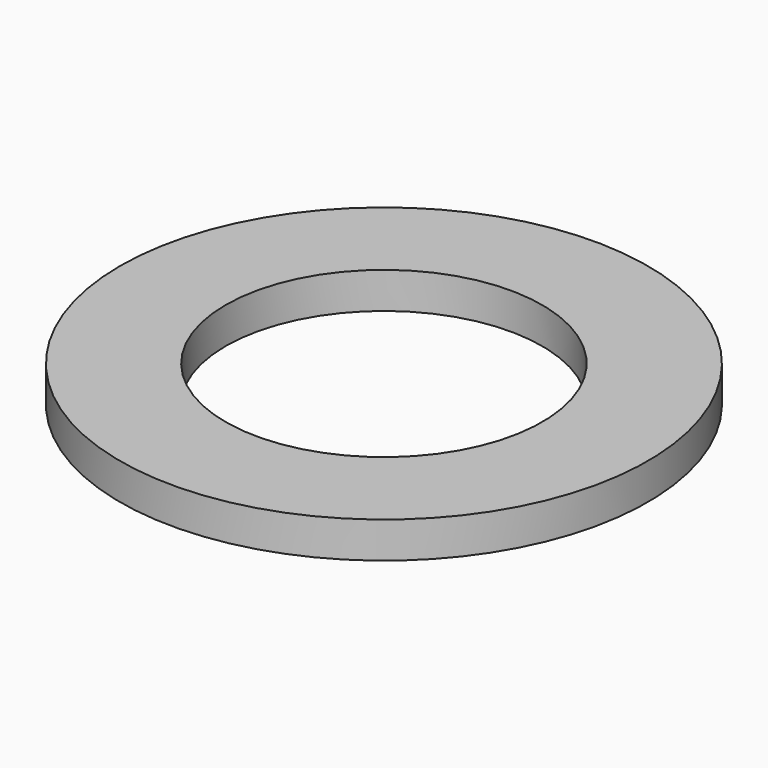
from build123d import *

# Parameters (mm, degrees)
CYLINDER001_R     = 17.5
CYLINDER001_DEPTH = 4
CYLINDER_R        = 29.17
CYLINDER_DEPTH    = 4


with BuildPart() as cylinder001:
    # Cylinder001 → Cylinder001 (new body)
    with BuildSketch(Plane.XY.offset(45)):
        Circle(CYLINDER001_R)
    extrude(amount=CYLINDER001_DEPTH)


with BuildPart() as cut001:
    # Cylinder → Cylinder (new body)
    with BuildSketch(Plane.XY.offset(45)):
        Circle(CYLINDER_R)
    extrude(amount=CYLINDER_DEPTH)

    # Cut001: cut Cylinder001
    add(cylinder001.part, mode=Mode.SUBTRACT)


with BuildPart() as part_mirroring001:
    # Part__Mirroring001: instance of Cut001
    add(cut001.part.mirror(Plane(origin=(0, 0, 0), x_dir=(0, -1, 0), z_dir=(1, 0, 0))))


solid = part_mirroring001.part
